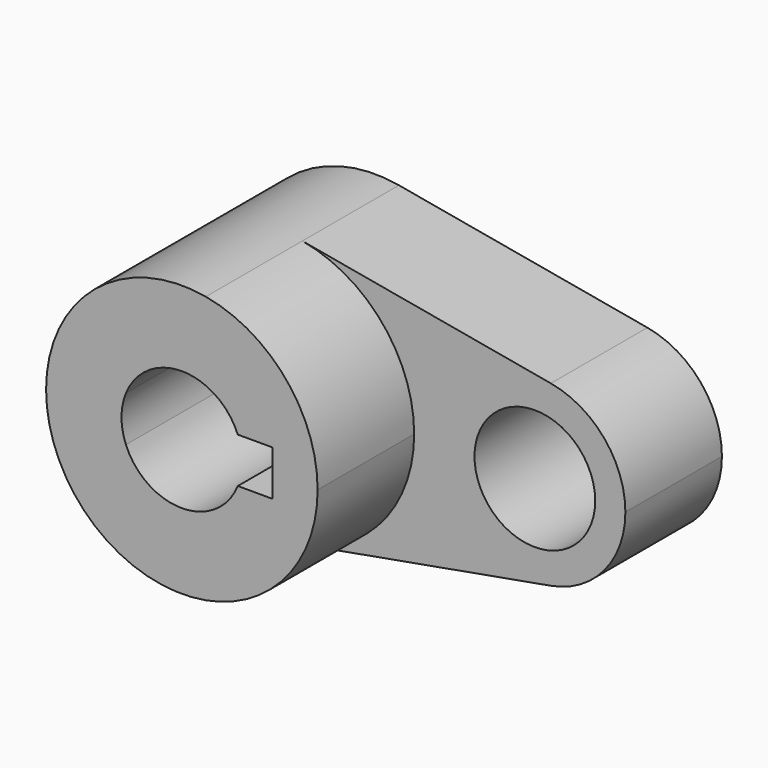
from build123d import *

# Parameters (mm, degrees)
F0_R     = 12.7
F1_DEPTH = 25.4
F2_DEPTH = 50.8


with BuildPart() as f1:
    # F0 (on Front) → F1 (new body)
    with BuildSketch(Plane.XZ):
        with BuildLine():
            ThreePointArc((5.042647, -28.126541), (21.916025, -18.336262), (28.575, 0))
            ThreePointArc((28.575, 0), (21.916025, 18.336262), (5.042647, 28.126541))
            ThreePointArc((5.042647, 28.126541), (-28.575, 0), (5.042647, -28.126541))
        make_face()
        with BuildLine():
            ThreePointArc((-11.773215, 4.7625), (0, 12.7), (11.773215, 4.7625))
            Line((11.773215, 4.7625), (19.05, 4.7625))
            Line((19.05, 4.7625), (19.05, -4.7625))
            Line((19.05, -4.7625), (11.773215, -4.7625))
            ThreePointArc((11.773215, -4.7625), (0, -12.7), (-11.773215, -4.7625))
            Line((-11.773215, -4.7625), (-19.05, -4.7625))
            Line((-19.05, -4.7625), (-19.05, 4.7625))
            Line((-19.05, 4.7625), (-11.773215, 4.7625))
        make_face(mode=Mode.SUBTRACT)
        with BuildLine():
            ThreePointArc((-11.773215, -4.7625), (-12.7, 0), (-11.773215, 4.7625))
            Line((-11.773215, 4.7625), (-19.05, 4.7625))
            Line((-19.05, 4.7625), (-19.05, -4.7625))
            Line((-19.05, -4.7625), (-11.773215, -4.7625))
        make_face()
        with BuildLine():
            ThreePointArc((73.025, 0), (68.585683, 12.224174), (57.336765, 18.751028))
            ThreePointArc((57.336765, 18.751028), (34.925, 0), (57.336765, -18.751028))
            ThreePointArc((57.336765, -18.751028), (68.585683, -12.224174), (73.025, 0))
        make_face()
        with Locations((53.975, 0)):
            Circle(F0_R, mode=Mode.SUBTRACT)
        with BuildLine():
            ThreePointArc((5.042647, 28.126541), (21.916025, 18.336262), (28.575, 0))
            ThreePointArc((28.575, 0), (21.916025, -18.336262), (5.042647, -28.126541))
            Line((5.042647, -28.126541), (57.336765, -18.751028))
            ThreePointArc((57.336765, -18.751028), (34.925, 0), (57.336765, 18.751028))
            Line((57.336765, 18.751028), (5.042647, 28.126541))
        make_face()
    extrude(amount=F1_DEPTH)

    # F0 (on Front) → F2 (join)
    with BuildSketch(Plane.XZ):
        with BuildLine():
            ThreePointArc((5.042647, -28.126541), (21.916025, -18.336262), (28.575, 0))
            ThreePointArc((28.575, 0), (21.916025, 18.336262), (5.042647, 28.126541))
            ThreePointArc((5.042647, 28.126541), (-28.575, 0), (5.042647, -28.126541))
        make_face()
        with BuildLine():
            ThreePointArc((-11.773215, 4.7625), (0, 12.7), (11.773215, 4.7625))
            Line((11.773215, 4.7625), (19.05, 4.7625))
            Line((19.05, 4.7625), (19.05, -4.7625))
            Line((19.05, -4.7625), (11.773215, -4.7625))
            ThreePointArc((11.773215, -4.7625), (0, -12.7), (-11.773215, -4.7625))
            Line((-11.773215, -4.7625), (-19.05, -4.7625))
            Line((-19.05, -4.7625), (-19.05, 4.7625))
            Line((-19.05, 4.7625), (-11.773215, 4.7625))
        make_face(mode=Mode.SUBTRACT)
        with BuildLine():
            ThreePointArc((-11.773215, -4.7625), (-12.7, 0), (-11.773215, 4.7625))
            Line((-11.773215, 4.7625), (-19.05, 4.7625))
            Line((-19.05, 4.7625), (-19.05, -4.7625))
            Line((-19.05, -4.7625), (-11.773215, -4.7625))
        make_face()
    extrude(amount=F2_DEPTH)


solid = f1.part
